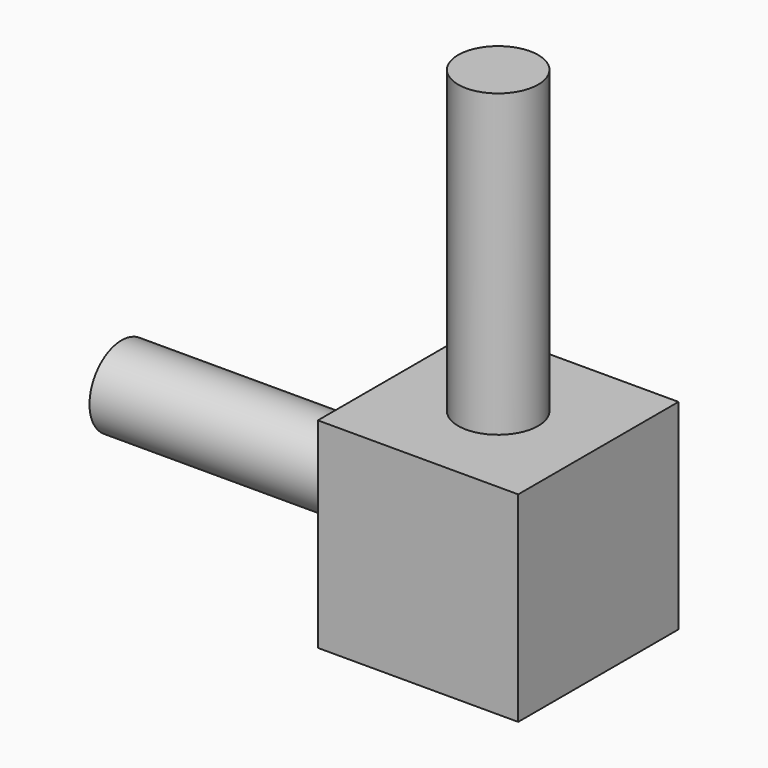
from build123d import *

# Parameters (mm, degrees)
F0_W     = 6.9
F0_H     = 1
F0_W_2   = 1
F0_H_2   = 7.5
F0_W_3   = 2.5
F0_H_3   = 2.5
F3_DEPTH = 2.5


with BuildPart() as f1:
    # F0 (on Front) → F1 (revolve)
    with BuildSketch(Plane.XZ):
        Polygon((1, -1), (0, 0), (-2.5, 0), (-2.5, -1), align=None)
        with Locations((-5.95, -0.5)):
            Rectangle(F0_W, F0_H)
    revolve(axis=Axis((-4.7, 0, 0), (-1, 0, 0)))

    # F0 (on Front) → F2 (revolve)
    with BuildSketch(Plane.XZ):
        with Locations((0.5, 6.25)):
            Rectangle(F0_W_2, F0_H_2)
        Polygon((0, 2.5), (0, 0), (1, -1), (1, 2.5), align=None)
    revolve(axis=Axis((0, 0, 5), (0, 0, 1)))

    # F0 (on Front) → F3 (join, symmetric)
    with BuildSketch(Plane.XZ):
        Polygon((1, 2.5), (1, -1), (-2.5, -1), (-2.5, -2.5), (2.5, -2.5), (2.5, 2.5), align=None)
        with Locations((-1.25, 1.25)):
            Rectangle(F0_W_3, F0_H_3)
        Polygon((0, 2.5), (0, 0), (1, -1), (1, 2.5), align=None)
        Polygon((1, -1), (0, 0), (-2.5, 0), (-2.5, -1), align=None)
    extrude(amount=F3_DEPTH, both=True)


solid = f1.part
